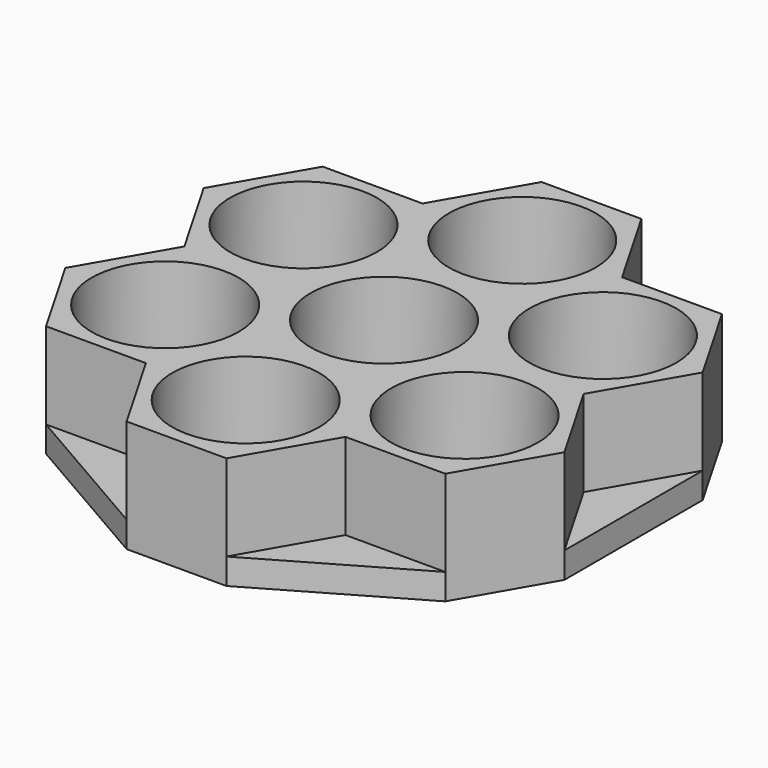
from build123d import *

# Parameters (mm, degrees)
F0_R     = 8.5
F1_DEPTH = 3
F2_DEPTH = 13


with BuildPart() as f1:
    # F0 (on Top) → F1 (new body)
    with BuildSketch(Plane.XY):
        Polygon((-23.094011, 20), (-11.547005, 20), (-5.773503, 30), align=None)
        Polygon((5.773503, 30), (11.547005, 20), (23.094011, 20), align=None)
        Polygon((11.547005, 20), (5.773503, 10), (11.547005, 0), (23.094011, 0), (28.867513, 10), (23.094011, 20), align=None)
        with Locations((17.320508, 10)):
            Circle(F0_R, mode=Mode.SUBTRACT)
        Polygon((-5.773503, -30), (-11.547005, -20), (-23.094011, -20), align=None)
        Polygon((23.094011, 0), (11.547005, 0), (5.773503, -10), (11.547005, -20), (23.094011, -20), (28.867513, -10), align=None)
        with Locations((17.320508, -10)):
            Circle(F0_R, mode=Mode.SUBTRACT)
        Polygon((28.867513, 10), (23.094011, 0), (28.867513, -10), align=None)
        Polygon((-28.867513, -10), (-23.094011, 0), (-28.867513, 10), align=None)
        Polygon((-11.547005, 20), (-5.773503, 10), (5.773503, 10), (11.547005, 20), (5.773503, 30), (-5.773503, 30), align=None)
        with Locations((0, 20)):
            Circle(F0_R, mode=Mode.SUBTRACT)
        Polygon((5.773503, 10), (-5.773503, 10), (-11.547005, 0), (-5.773503, -10), (5.773503, -10), (11.547005, 0), align=None)
        Circle(F0_R, mode=Mode.SUBTRACT)
        Polygon((5.773503, -10), (-5.773503, -10), (-11.547005, -20), (-5.773503, -30), (5.773503, -30), (11.547005, -20), align=None)
        with Locations((0, -20)):
            Circle(F0_R, mode=Mode.SUBTRACT)
        Polygon((23.094011, -20), (11.547005, -20), (5.773503, -30), align=None)
        Polygon((-5.773503, -10), (-11.547005, 0), (-23.094011, 0), (-28.867513, -10), (-23.094011, -20), (-11.547005, -20), align=None)
        with Locations((-17.320508, -10)):
            Circle(F0_R, mode=Mode.SUBTRACT)
        Polygon((-11.547005, 0), (-5.773503, 10), (-11.547005, 20), (-23.094011, 20), (-28.867513, 10), (-23.094011, 0), align=None)
        with Locations((-17.320508, 10)):
            Circle(F0_R, mode=Mode.SUBTRACT)
        with Locations((0, 20)):
            Circle(F0_R)
        with Locations((17.320508, 10)):
            Circle(F0_R)
        Circle(F0_R)
        with Locations((17.320508, -10)):
            Circle(F0_R)
        with Locations((0, -20)):
            Circle(F0_R)
        with Locations((-17.320508, -10)):
            Circle(F0_R)
        with Locations((-17.320508, 10)):
            Circle(F0_R)
    extrude(amount=F1_DEPTH)

    # F0 (on Top) → F2 (join)
    with BuildSketch(Plane.XY):
        Polygon((5.773503, 10), (-5.773503, 10), (-11.547005, 0), (-5.773503, -10), (5.773503, -10), (11.547005, 0), align=None)
        Circle(F0_R, mode=Mode.SUBTRACT)
        Polygon((-5.773503, -10), (-11.547005, 0), (-23.094011, 0), (-28.867513, -10), (-23.094011, -20), (-11.547005, -20), align=None)
        with Locations((-17.320508, -10)):
            Circle(F0_R, mode=Mode.SUBTRACT)
        Polygon((-11.547005, 20), (-5.773503, 10), (5.773503, 10), (11.547005, 20), (5.773503, 30), (-5.773503, 30), align=None)
        with Locations((0, 20)):
            Circle(F0_R, mode=Mode.SUBTRACT)
        Polygon((5.773503, -10), (-5.773503, -10), (-11.547005, -20), (-5.773503, -30), (5.773503, -30), (11.547005, -20), align=None)
        with Locations((0, -20)):
            Circle(F0_R, mode=Mode.SUBTRACT)
        Polygon((23.094011, 0), (11.547005, 0), (5.773503, -10), (11.547005, -20), (23.094011, -20), (28.867513, -10), align=None)
        with Locations((17.320508, -10)):
            Circle(F0_R, mode=Mode.SUBTRACT)
        Polygon((11.547005, 20), (5.773503, 10), (11.547005, 0), (23.094011, 0), (28.867513, 10), (23.094011, 20), align=None)
        with Locations((17.320508, 10)):
            Circle(F0_R, mode=Mode.SUBTRACT)
        Polygon((-11.547005, 0), (-5.773503, 10), (-11.547005, 20), (-23.094011, 20), (-28.867513, 10), (-23.094011, 0), align=None)
        with Locations((-17.320508, 10)):
            Circle(F0_R, mode=Mode.SUBTRACT)
    extrude(amount=F2_DEPTH)


solid = f1.part
